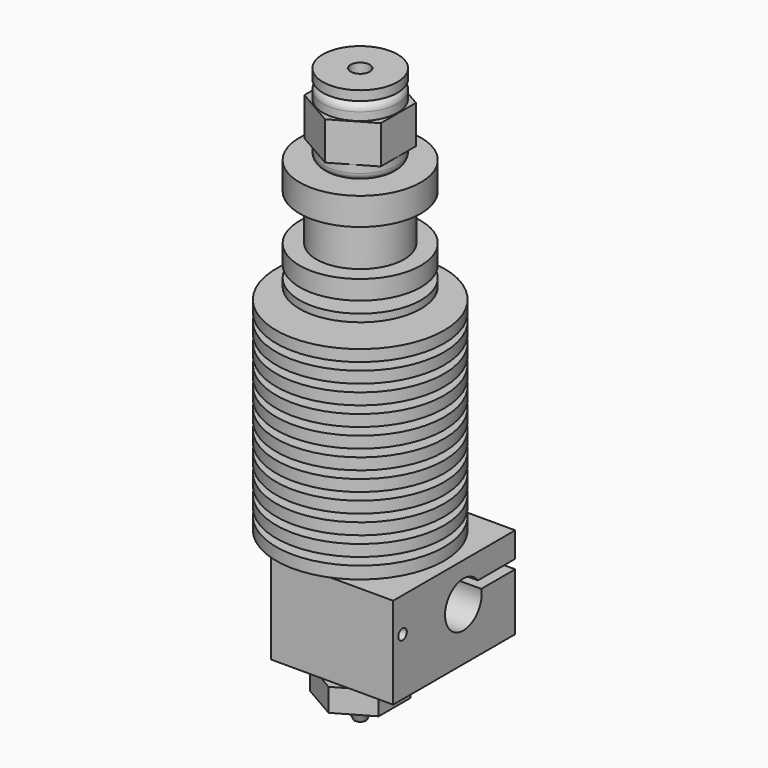
from build123d import *

# Parameters (mm, degrees)
F4_R      = 3.75
F4_R_2    = 2
F9_DEPTH  = 1.2
F10_DEPTH = 3.7
F11_DEPTH = 3
F12_DEPTH = 2.5
F13_DEPTH = 8
F14_D     = 2.5
F14_DEPTH = 6.0511758158
F15_D     = 1.4
F15_DEPTH = 11.001


with BuildPart() as f8:
    # F3 (on Front) → F8 (revolve)
    with BuildSketch(Plane.XZ):
        with BuildLine():
            Line((0, 42.7), (0, 0))
            Line((0, 0), (-8.38e-08, -21.7723533995))
            Line((-8.38e-08, -21.7723533995), (0.7499999162, -21.7723533995))
            Line((0.7499999162, -21.7723533995), (1.9999999162, -19))
            Line((1.9999999162, -19), (1.9999999162, -1.2))
            Line((1.9999999162, -1.2), (3.7499999162, -1.2))
            Line((3.7499999162, -1.2), (3.7499999162, 0))
            Line((3.7499999162, 0), (11, 0))
            Line((11, 0), (11, 1.6))
            Line((11, 1.6), (4.5, 1.6))
            Line((4.5, 1.6), (4.5, 2.6))
            Line((4.5, 2.6), (11, 2.6))
            Line((11, 2.6), (11, 4.1))
            Line((11, 4.1), (4.5, 4.1))
            Line((4.5, 4.1), (4.5, 5.1))
            Line((4.5, 5.1), (11, 5.1))
            Line((11, 5.1), (11, 6.6))
            Line((11, 6.6), (4.5, 6.6))
            Line((4.5, 6.6), (4.5, 7.6))
            Line((4.5, 7.6), (11, 7.6))
            Line((11, 7.6), (11, 9.1))
            Line((11, 9.1), (4.5, 9.1))
            Line((4.5, 9.1), (4.5, 10.1))
            Line((4.5, 10.1), (11, 10.1))
            Line((11, 10.1), (11, 11.6))
            Line((11, 11.6), (4.5, 11.6))
            Line((4.5, 11.6), (4.5, 12.6))
            Line((4.5, 12.6), (11, 12.6))
            Line((11, 12.6), (11, 14.1))
            Line((11, 14.1), (4.5, 14.1))
            Line((4.5, 14.1), (4.5, 15.1))
            Line((4.5, 15.1), (11, 15.1))
            Line((11, 15.1), (11, 16.6))
            Line((11, 16.6), (4.5, 16.6))
            Line((4.5, 16.6), (4.5, 17.6))
            Line((4.5, 17.6), (11, 17.6))
            Line((11, 17.6), (11, 19.1))
            Line((11, 19.1), (4.5, 19.1))
            Line((4.5, 19.1), (4.5, 20.1))
            Line((4.5, 20.1), (11, 20.1))
            Line((11, 20.1), (11, 21.6))
            Line((11, 21.6), (4.5, 21.6))
            Line((4.5, 21.6), (4.5, 22.6))
            Line((4.5, 22.6), (11, 22.6))
            Line((11, 22.6), (11, 24.1))
            Line((11, 24.1), (4.5, 24.1))
            Line((4.5, 24.1), (4.5, 25.1))
            Line((4.5, 25.1), (11, 25.1))
            Line((11, 25.1), (11, 26.6))
            Line((11, 26.6), (4.5, 26.6))
            Line((4.5, 26.6), (4.5, 28.1))
            Line((4.5, 28.1), (7.95, 28.1))
            Line((7.95, 28.1), (7.95, 29.1))
            Line((7.95, 29.1), (4.5, 29.1))
            Line((4.5, 29.1), (4.5, 30.6))
            Line((4.5, 30.6), (7.95, 30.6))
            Line((7.95, 30.6), (7.95, 33.1))
            Line((7.95, 33.1), (5.75, 33.1))
            Line((5.75, 33.1), (5.75, 39.1))
            Line((5.75, 39.1), (7.95, 39.1))
            Line((7.95, 39.1), (7.95, 42.7))
            Line((7.95, 42.7), (3.9007244632, 42.7))
            ThreePointArc((3.9007244632, 42.7), (4.6078312444, 42.9928932188), (4.9007244632, 43.7))
            Line((4.9007244632, 43.7), (4.9007244632, 50.8))
            ThreePointArc((4.9007244632, 50.8), (4.6078312444, 51.5071067812), (3.9007244632, 51.8))
            Line((3.9007244632, 51.8), (2.400000114, 51.8))
            Line((2.400000114, 51.8), (2.400000114, 52.05))
            Line((2.400000114, 52.05), (4.9007244632, 52.05))
            Line((4.9007244632, 52.05), (4.9007244632, 53.3001758158))
            Line((4.9007244632, 53.3001758158), (0, 53.3001758158))
            Line((0, 53.3001758158), (0, 51.8))
            Line((0, 51.8), (0, 42.7))
        make_face()
    revolve(axis=Axis((0, 0, 21.35), (0, 0, 1)))

    # F4 (on Top) → F9 (join)
    with BuildSketch(Plane.XY):
        Circle(F4_R)
        Circle(F4_R_2, mode=Mode.SUBTRACT)
    extrude(amount=-F9_DEPTH)

    # F4 (on Top) → F10 (join)
    with BuildSketch(Plane.XY):
        Circle(F4_R_2)
    extrude(amount=-F10_DEPTH)

    # F5 (on offset) → F11 (join)
    with BuildSketch(Plane.XY.offset(-19)):
        Polygon((4.5, -2.5980762114), (4.5, 2.5980762114), (0, 5.1961524227), (-4.5, 2.5980762114), (-4.5, -2.5980762114), (0, -5.1961524227), align=None)
    extrude(amount=F11_DEPTH)

    # F6 (on offset) → F12 (join, symmetric)
    with BuildSketch(Plane.XY.offset(47.25)):
        Polygon((5, -2.8867513459), (5, 2.8867513459), (0, 5.7735026919), (-5, 2.8867513459), (-5, -2.8867513459), (0, -5.7735026919), align=None)
    extrude(amount=F12_DEPTH, both=True)

    # F7 (on Right) → F13 (join, symmetric)
    with BuildSketch(Plane.YZ):
        with BuildLine():
            Line((15.400047414, -3.6999706645), (-4.6000713482, -3.6999706645))
            Line((-4.6000713482, -3.6999706645), (-4.6000713482, -15.7000441104))
            Line((-4.6000713482, -15.7000441104), (15.400047414, -15.7000441104))
            Line((15.400047414, -15.7000441104), (15.400047414, -8.1999711692))
            Line((15.400047414, -8.1999711692), (9.8358729723, -8.1999711692))
            ThreePointArc((9.8358729723, -8.1999711692), (4.1714493177, -10.0637568305), (9.2873664374, -6.9999708794))
            Line((9.2873664374, -6.9999708794), (15.400047414, -6.9999708794))
            Line((15.400047414, -6.9999708794), (15.400047414, -3.6999706645))
        make_face()
    extrude(amount=F13_DEPTH, both=True)

    # F14 (through all, one way)
    with BuildSketch(Plane(origin=(0, 0, 47.25), x_dir=(1, 0, 0), z_dir=(0, 0, -1))):
        with Locations((0, 0)):
            Circle(F14_D / 2)
    extrude(amount=-F14_DEPTH, mode=Mode.SUBTRACT)

    # F15 (through all, one way)
    with BuildSketch(Plane(origin=(0, 0, 0), x_dir=(0, 1, 0), z_dir=(-1, 0, 0))):
        with Locations((-3.0674322043, 8.1999711692)):
            Circle(F15_D / 2)
    extrude(amount=-F15_DEPTH, mode=Mode.SUBTRACT)


solid = f8.part
